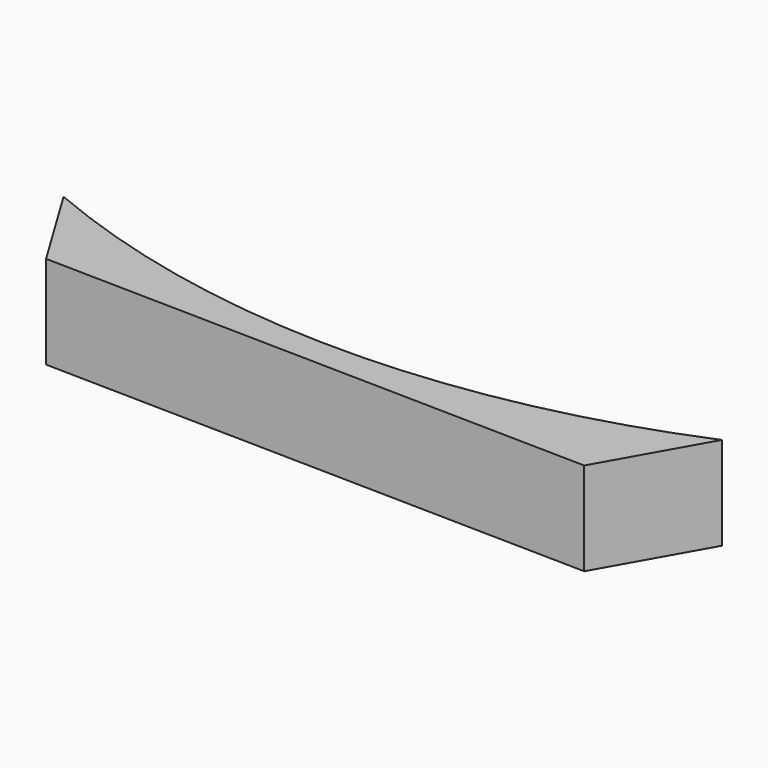
from build123d import *

# Parameters (mm, degrees)
F1_DEPTH = 17.272
F2_SCALE = 0.98


with BuildPart() as f1:
    # F0 (on Top) → F1 (new body)
    with BuildSketch(Plane.XY):
        with BuildLine():
            ThreePointArc((61.9663668393, 11.1356390892), (0.9300557493, -1.2205548463), (-60.1062553407, 11.1356390892))
            Line((-60.1062553407, 11.1356390892), (-49.9114394188, -5.6524057873))
            Line((-49.9114394188, -5.6524057873), (51.4024458826, -7.5768930838))
            Line((51.4024458826, -7.5768930838), (61.9663668393, 11.1356390892))
        make_face()
    extrude(amount=F1_DEPTH)


with BuildPart() as f1_1:
    # F2: moved
    add(f1.part.scale(F2_SCALE).moved(Location((-1.2021251068, 0.2227127818, 0))))


solid = f1_1.part
